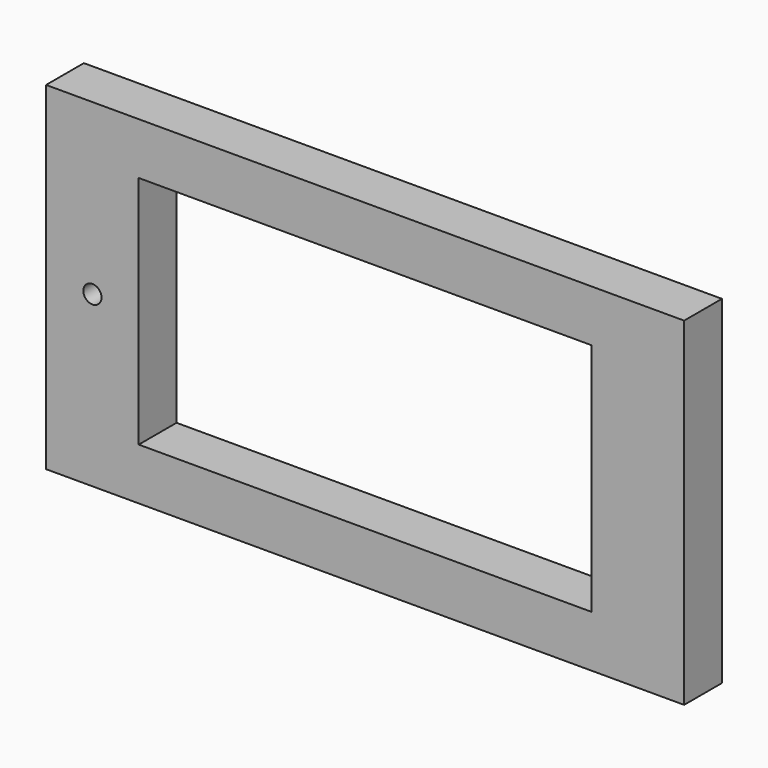
from build123d import *

# Parameters (mm, degrees)
SKETCH_W        = 35.12
SKETCH_H        = 18.62
PAD_DEPTH       = 2.6
SKETCH002_W     = 24.92
SKETCH002_H     = 12.92
POCKET_DEPTH    = 2.6
SKETCH003_W     = 2.01
SKETCH003_H     = 3.5
SKETCH003_R     = 0.5
POCKET001_DEPTH = 5


with BuildPart() as part:
    # Sketch → Pad (new body)
    with BuildSketch(Plane.XZ):
        with Locations((17.56, 9.31)):
            Rectangle(SKETCH_W, SKETCH_H)
    extrude(amount=PAD_DEPTH)

    # Sketch002 (on Face6 of Pad) → Pocket (cut)
    with BuildSketch(Plane.XZ.offset(2.6)):
        with Locations((17.56, 9.31)):
            Rectangle(SKETCH002_W, SKETCH002_H)
    extrude(amount=-POCKET_DEPTH, mode=Mode.SUBTRACT)

    # Sketch003 (on Face4 of Pocket) → Pocket001 (cut)
    with BuildSketch(Plane(origin=(0, 0, 0), x_dir=(1, 0, 0), z_dir=(0, 1, 0))):
        with Locations((27.953742, -8.544061)):
            Rectangle(SKETCH003_W, SKETCH003_H)
        with Locations((2.55, -9.31)):
            Circle(SKETCH003_R)
    extrude(amount=-POCKET001_DEPTH, mode=Mode.SUBTRACT)


solid = part.part
